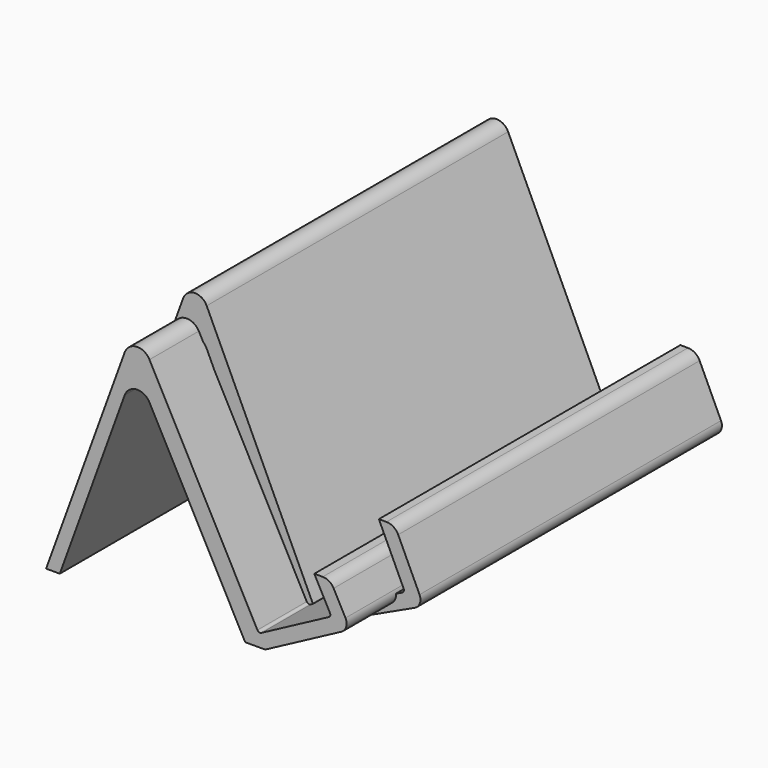
from build123d import *

# Parameters (mm, degrees)
F1_DEPTH = 64
F2_R     = 1.988217
F3_R     = 0.424
F4_R     = 1.800359
F5_R     = 1.448528
F7_DEPTH = 55
F8_R     = 1.859743
F9_R     = 0.458701
F10_R    = 1.884872
F11_R    = 1.448528


with BuildPart() as f1:
    # F0 (on Front) → F1 (new body)
    with BuildSketch(Plane.XZ):
        Polygon((0, 30.213365), (16.064731, 0), (18.98645, 0), (31.382222, 6.590949), (28.46408, 12.079176), (26.154679, 12.079176), (28.642878, 7.399554), (18.047507, 1.765895), (0, 35.70832), (-12.996765, 0), (-10.996765, 0), align=None)
    extrude(amount=F1_DEPTH)

    # F2
    f2_edges = [f1.edges().sort_by_distance(p)[0] for p in [
        (0, -32, 30.213365),
        (0, -32, 35.70832),
    ]]
    fillet(f2_edges, radius=F2_R)

    # F3
    f3_edges = [f1.edges().sort_by_distance(p)[0] for p in [
        (18.047507, -32, 1.765895),
        (28.642878, -32, 7.399554),
    ]]
    fillet(f3_edges, radius=F3_R)

    # F4
    f4_edges = [f1.edges().sort_by_distance(p)[0] for p in [
        (28.46408, -32, 12.079176),
    ]]
    fillet(f4_edges, radius=F4_R)

    # F5
    f5_edges = [f1.edges().sort_by_distance(p)[0] for p in [
        (31.382222, -32, 6.590949),
    ]]
    fillet(f5_edges, radius=F5_R)


with BuildPart() as f7:
    # F6 (on Front) → F7 (new body)
    with BuildSketch(Plane.XZ):
        Polygon((1.342843, 33.972135), (17.18431, 0), (19.74665, 0), (34.920986, 7.075909), (30.684659, 16.160743), (28.375258, 16.160743), (32.178822, 8.003973), (18.901413, 1.812616), (1.342843, 39.46709), (-13.022003, 0), (-11.022003, 0), align=None)
    extrude(amount=F7_DEPTH)

    # F8
    f8_edges = [f7.edges().sort_by_distance(p)[0] for p in [
        (1.342843, -27.5, 39.46709),
        (1.342843, -27.5, 33.972135),
    ]]
    fillet(f8_edges, radius=F8_R)

    # F9
    f9_edges = [f7.edges().sort_by_distance(p)[0] for p in [
        (18.901413, -27.5, 1.812616),
        (32.178822, -27.5, 8.003973),
    ]]
    fillet(f9_edges, radius=F9_R)

    # F10
    f10_edges = [f7.edges().sort_by_distance(p)[0] for p in [
        (30.684659, -27.5, 16.160743),
    ]]
    fillet(f10_edges, radius=F10_R)

    # F11
    f11_edges = [f7.edges().sort_by_distance(p)[0] for p in [
        (34.920986, -27.5, 7.075909),
    ]]
    fillet(f11_edges, radius=F11_R)


solid = Compound([f1.part, f7.part])
